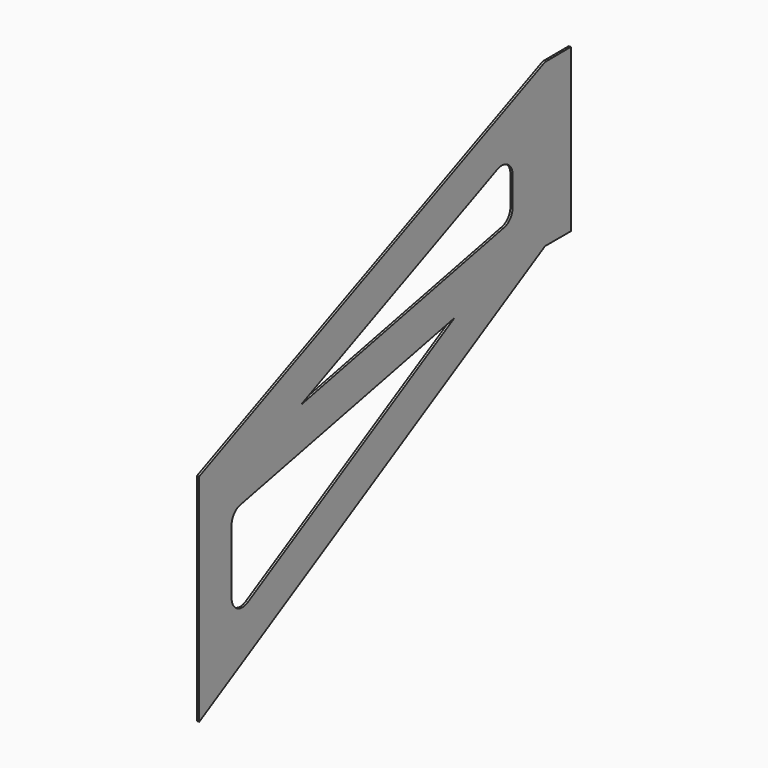
from build123d import *

# Parameters (mm, degrees)
F1_DEPTH = 1.016


with BuildPart() as f1:
    # F0 (on Right) → F1 (new body)
    with BuildSketch(Plane.YZ):
        Polygon((203.2, 190.5), (203.2, 114.3), (218.44, 114.3), (218.44, 190.573409), align=None)
        Polygon((0, 101.6), (0, 0), (203.2, 114.3), (203.2, 190.5), align=None)
        with BuildLine():
            Line((149.997018, 106.230292), (28.513159, 37.895621))
            ThreePointArc((28.513159, 37.895621), (22.194229, 37.948746), (19.05, 43.430126))
            Line((19.05, 43.430126), (19.05, 73.798285))
            ThreePointArc((19.05, 73.798285), (20.473397, 77.804666), (24.105461, 80.01493))
            Line((24.105461, 80.01493), (149.997018, 106.230292))
        make_face(mode=Mode.SUBTRACT)
        with BuildLine():
            Line((184.15, 151.663004), (184.15, 137.964785))
            ThreePointArc((184.15, 137.964785), (182.726603, 133.958404), (179.094539, 131.748141))
            Line((179.094539, 131.748141), (59.526938, 106.849664))
            Line((59.526938, 106.849664), (175.2548, 157.480603))
            ThreePointArc((175.2548, 157.480603), (181.275664, 156.977349), (184.15, 151.663004))
        make_face(mode=Mode.SUBTRACT)
    extrude(amount=F1_DEPTH)


solid = f1.part
